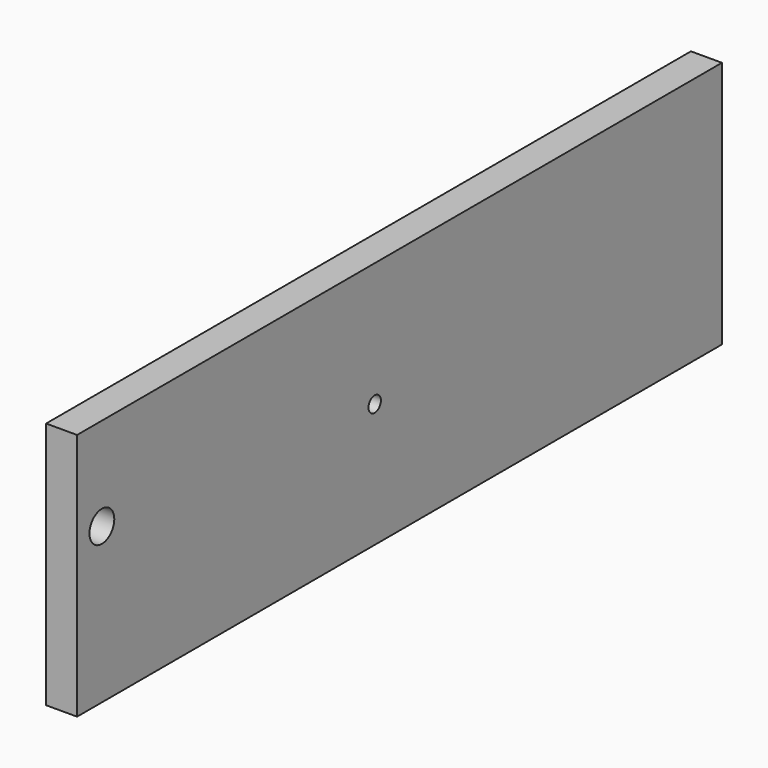
from build123d import *

# Parameters (mm, degrees)
F0_W     = 330.2
F0_H     = 101.6
F0_R     = 6.35
F0_R_2   = 3.175
F1_DEPTH = 12.7


with BuildPart() as f1:
    # F0 (on Right) → F1 (new body)
    with BuildSketch(Plane.YZ):
        with Locations((52.411457, 13.716)):
            Rectangle(F0_W, F0_H)
        with Locations((-99.988543, 26.416)):
            Circle(F0_R, mode=Mode.SUBTRACT)
        with Locations((39.711457, 13.716)):
            Circle(F0_R_2, mode=Mode.SUBTRACT)
    extrude(amount=F1_DEPTH)


solid = f1.part
